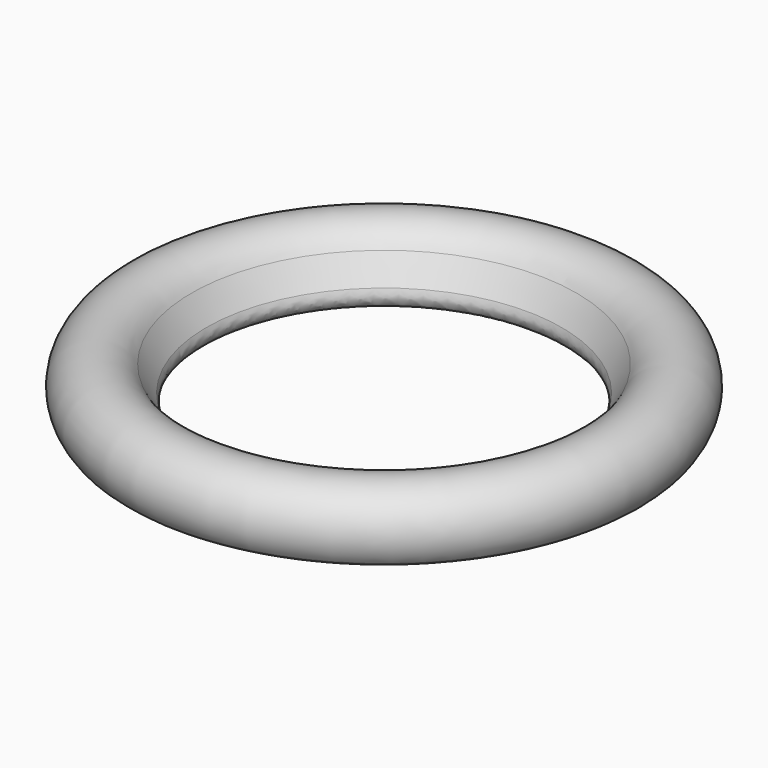
from build123d import *

# Parameters (mm, degrees)
F4_R = 1.5
F5_R = 1
F6_R = 1.5


with BuildPart() as f3:
    # F3: sweep along a path in F0
    with BuildLine(Plane.XY) as f3_path:
        CenterArc((0, 0), 18.375, 0, 360)
    # F2 (on Right) → F3 (sweep)
    with BuildSketch(Plane.YZ):
        with BuildLine():
            Line((-18.375, 0), (-21.3070255288, 5.078417185))
            ThreePointArc((-21.3070255288, 5.078417185), (-27.5404738358, 6.3416839293), (-28.025, 0))
            Line((-28.025, 0), (-18.375, 0))
        make_face()
        with BuildLine():
            Line((-20.9730762114, 1.5), (-27.3060622549, 1.5))
            ThreePointArc((-27.3060622549, 1.5), (-26.3961559746, 5.3072202351), (-22.6060636345, 4.328417185))
            Line((-22.6060636345, 4.328417185), (-20.9730762114, 1.5))
        make_face(mode=Mode.SUBTRACT)
    sweep(path=f3_path.line)

    # F4
    f4_edges = [f3.edges().sort_by_distance(p)[0] for p in [
        (-20.973076, 0, 1.5),
    ]]
    fillet(f4_edges, radius=F4_R)

    # F5
    f5_edges = [f3.edges().sort_by_distance(p)[0] for p in [
        (-28.025, 0, 0),
    ]]
    fillet(f5_edges, radius=F5_R)

    # F6
    f6_edges = [f3.edges().sort_by_distance(p)[0] for p in [
        (-18.375, 0, 0),
    ]]
    fillet(f6_edges, radius=F6_R)


solid = f3.part
